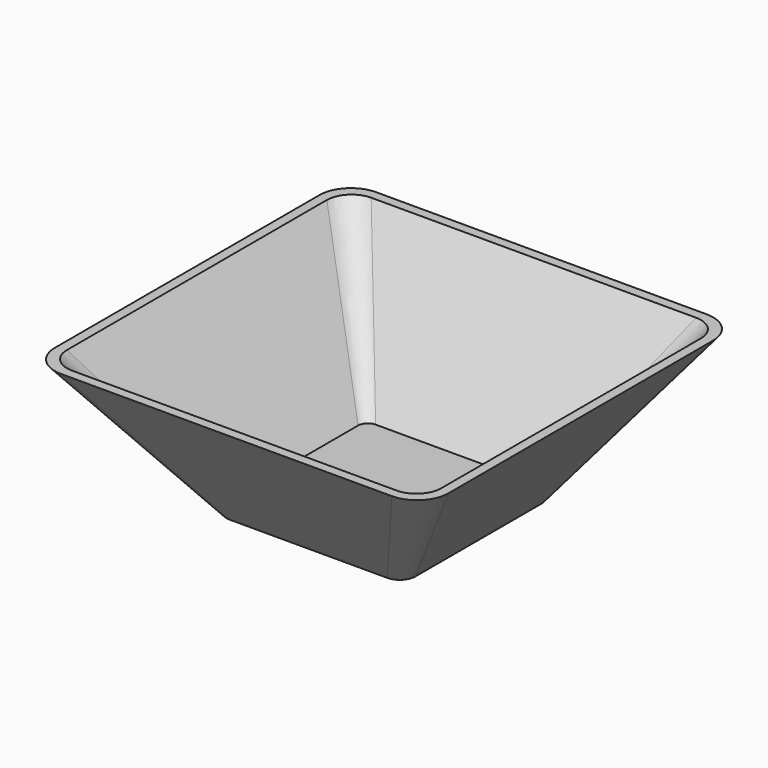
from build123d import *

# Parameters (mm, degrees)
F4_T = -2.5


with BuildPart() as f3:
    # F0 (on Top) → F3 section 0
    with BuildSketch(Plane.XY):
        with BuildLine():
            Line((25, 30), (-25, 30))
            ThreePointArc((-25, 30), (-28.5355339059, 28.5355339059), (-30, 25))
            Line((-30, 25), (-30, -25))
            ThreePointArc((-30, -25), (-28.5355339059, -28.5355339059), (-25, -30))
            Line((-25, -30), (25, -30))
            ThreePointArc((25, -30), (28.5355339059, -28.5355339059), (30, -25))
            Line((30, -25), (30, 25))
            ThreePointArc((30, 25), (28.5355339059, 28.5355339059), (25, 30))
        make_face()
    # F2 (on offset) → F3 section 1
    with BuildSketch(Plane.XY.offset(45)):
        with BuildLine():
            Line((52.5, 62.5), (-52.5, 62.5))
            ThreePointArc((-52.5, 62.5), (-59.5710678119, 59.5710678119), (-62.5, 52.5))
            Line((-62.5, 52.5), (-62.5, -52.5))
            ThreePointArc((-62.5, -52.5), (-59.5710678119, -59.5710678119), (-52.5, -62.5))
            Line((-52.5, -62.5), (52.5, -62.5))
            ThreePointArc((52.5, -62.5), (59.5710678119, -59.5710678119), (62.5, -52.5))
            Line((62.5, -52.5), (62.5, 52.5))
            ThreePointArc((62.5, 52.5), (59.5710678119, 59.5710678119), (52.5, 62.5))
        make_face()
    loft()

    # F4
    f4_openings = [f3.faces().sort_by_distance(p)[0] for p in [
        (0, 0, 45),
    ]]
    offset(amount=F4_T, openings=f4_openings)


solid = f3.part
